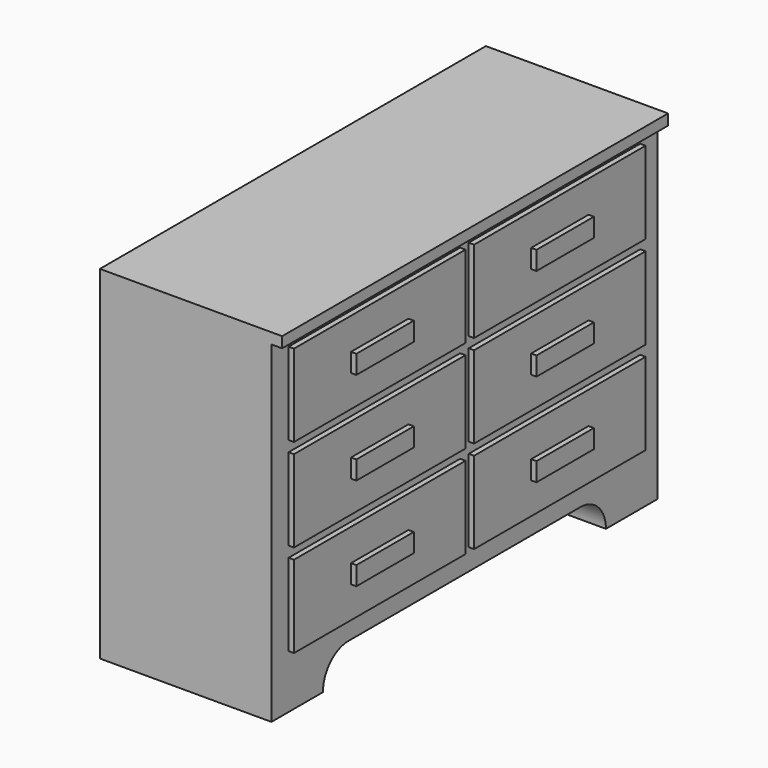
from build123d import *

# Parameters (mm, degrees)
F0_W      = 406.4
F0_H      = 1143
F1_DEPTH  = 812.8
F2_W      = 25.4
F2_H      = 1143
F3_DEPTH  = 25.4
F4_W      = 508
F4_H      = 194.733333
F4_H_2    = 194.733334
F5_DEPTH  = 12.7
F6_DEPTH  = 406.401
F7_W      = 170.104802
F7_H      = 44.162155
F8_DEPTH  = 12.7
F9_W      = 203.2
F9_H      = 939.8
F10_DEPTH = 693.42


with BuildPart() as f1:
    # F0 (on Top) → F1 (new body)
    with BuildSketch(Plane.XY):
        Rectangle(F0_W, F0_H)
    extrude(amount=F1_DEPTH)

    # F2 (on face) → F3 (join)
    with BuildSketch(Plane.XY.offset(812.8)):
        with Locations((215.9, 0)):
            Rectangle(F2_W, F2_H)
    extrude(amount=-F3_DEPTH)

    # F4 (on face) → F5 (join)
    with BuildSketch(Plane.YZ.offset(203.2)):
        with Locations((-266.7, 664.633333)):
            Rectangle(F4_W, F4_H)
        with Locations((266.7, 664.633333)):
            Rectangle(F4_W, F4_H)
        with Locations((266.7, 444.5)):
            Rectangle(F4_W, F4_H_2)
        with Locations((-266.7, 444.5)):
            Rectangle(F4_W, F4_H_2)
        with Locations((-266.7, 224.366666)):
            Rectangle(F4_W, F4_H)
        with Locations((266.7, 224.366666)):
            Rectangle(F4_W, F4_H)
    extrude(amount=F5_DEPTH)

    # F4 (on face) → F6 (cut, through all)
    with BuildSketch(Plane.YZ.offset(203.2)):
        with BuildLine():
            Line((342.9, 76.2), (-342.9, 76.2))
            ThreePointArc((-342.9, 76.2), (-396.781537, 53.881537), (-419.1, 0))
            Line((-419.1, 0), (419.1, 0))
            ThreePointArc((419.1, 0), (396.781537, 53.881537), (342.9, 76.2))
        make_face()
    extrude(amount=-F6_DEPTH, mode=Mode.SUBTRACT)

    # F7 (on face) → F8 (join)
    with BuildSketch(Plane.YZ.offset(215.9)):
        with Locations((-266.7, 664.633333)):
            Rectangle(F7_W, F7_H)
        with Locations((266.7, 664.633333)):
            Rectangle(F7_W, F7_H)
        with Locations((266.7, 444.262933)):
            Rectangle(F7_W, F7_H)
        with Locations((266.7, 223.892533)):
            Rectangle(F7_W, F7_H)
        with Locations((-266.7, 223.892533)):
            Rectangle(F7_W, F7_H)
        with Locations((-266.7, 444.262933)):
            Rectangle(F7_W, F7_H)
    extrude(amount=F8_DEPTH)

    # F9 (on face) → F10 (cut)
    with BuildSketch(Plane(origin=(0, 0, 0), x_dir=(1, 0, 0), z_dir=(0, 0, -1))):
        Rectangle(F9_W, F9_H)
        Rectangle(F9_W, F9_H)
    extrude(amount=-F10_DEPTH, mode=Mode.SUBTRACT)


solid = f1.part
